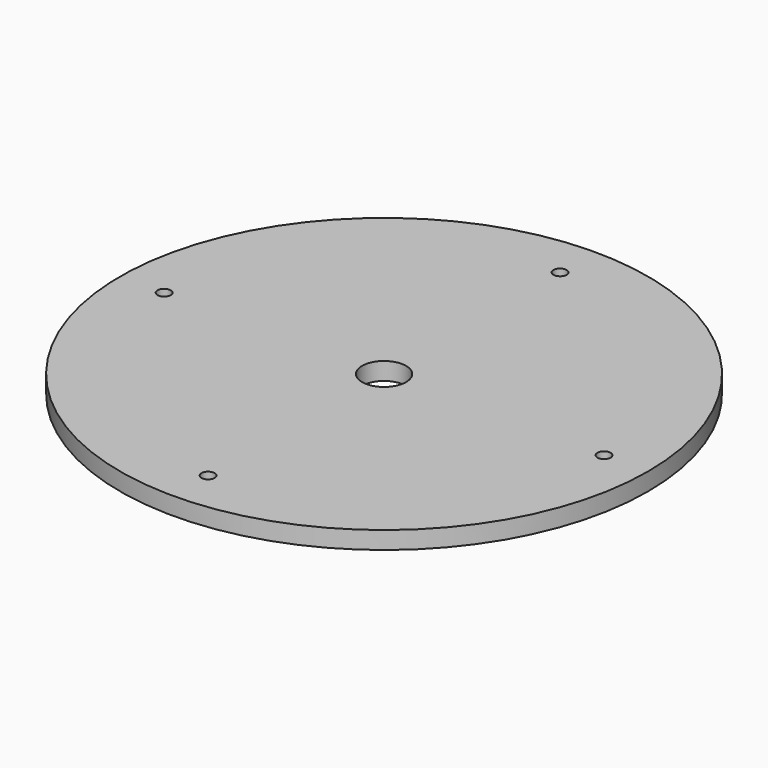
from build123d import *

# Parameters (mm, degrees)
SKETCH_R   = 60
SKETCH_R_2 = 5
SKETCH_R_3 = 1.5
PAD_DEPTH  = 4


with BuildPart() as part:
    # Sketch → Pad (new body)
    with BuildSketch(Plane.XY):
        Circle(SKETCH_R)
        Circle(SKETCH_R_2, mode=Mode.SUBTRACT)
        with Locations((0, 50)):
            Circle(SKETCH_R_3, mode=Mode.SUBTRACT)
        with Locations((0, -50)):
            Circle(SKETCH_R_3, mode=Mode.SUBTRACT)
        with Locations((50, 0)):
            Circle(SKETCH_R_3, mode=Mode.SUBTRACT)
        with Locations((-50, 0)):
            Circle(SKETCH_R_3, mode=Mode.SUBTRACT)
    extrude(amount=PAD_DEPTH)


solid = part.part
